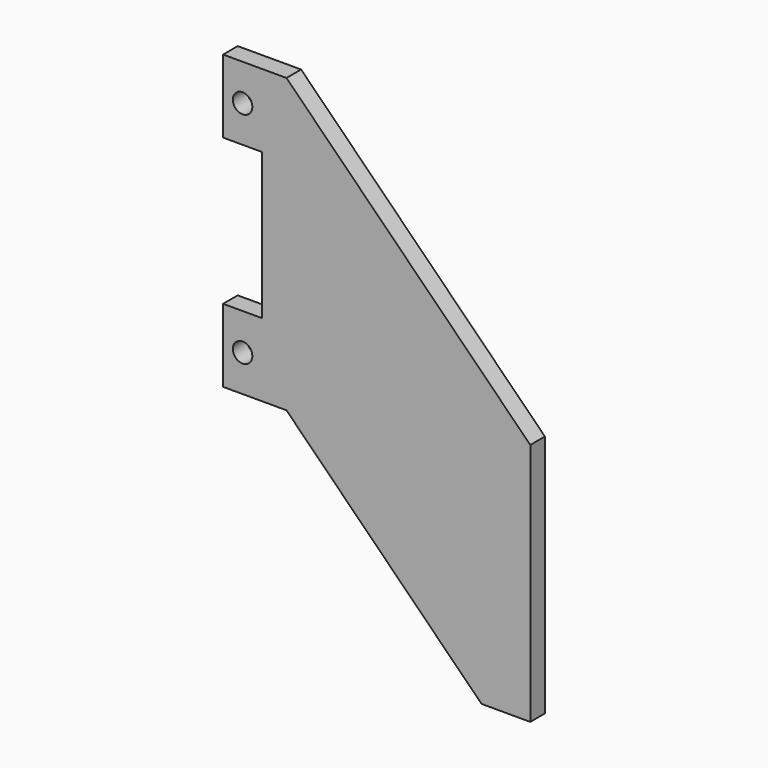
from build123d import *

# Parameters (mm, degrees)
F1_DEPTH = 2.38125
F3_D     = 5.08


with BuildPart() as f1:
    # F0 (on Front) → F1 (new body, symmetric)
    with BuildSketch(Plane.XZ):
        Polygon((63.5, 12.7), (0, 76.2), (-6.35, 76.2), (-16.51, 76.2), (-16.51, 57.15), (-6.35, 57.15), (-6.35, 47.625), (-6.35, 28.575), (-6.35, 19.05), (-16.51, 19.05), (-16.51, 0), (-6.35, 0), (0, 0), (50.8, -50.8), (63.5, -50.8), align=None)
    extrude(amount=F1_DEPTH, both=True)

    # F3 (through all)
    with Locations(Plane.XZ.offset(2.38125)):
        with Locations((-11.43, 66.675), (-11.43, 38.1), (-11.43, 9.525)):
            Hole(F3_D / 2)


solid = f1.part
